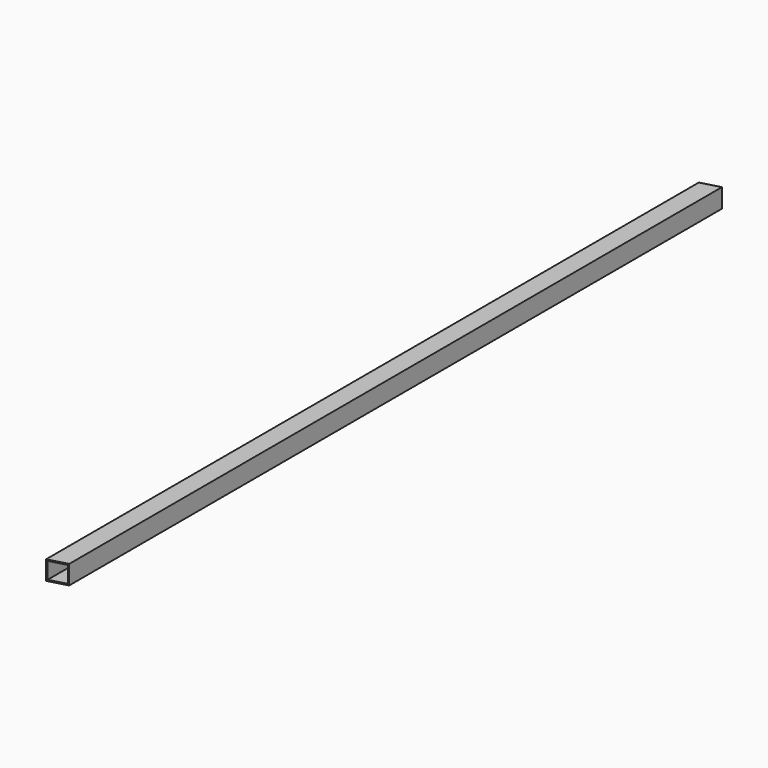
from build123d import *

# Parameters (mm, degrees)
F0_W     = 25.4
F0_H     = 25.4
F0_W_2   = 22.225
F0_H_2   = 22.225
F1_DEPTH = 548.64
F3_DEPTH = 25.401
F5_DEPTH = 25.401


with BuildPart() as f1:
    # F0 (on Front) → F1 (new body, symmetric)
    with BuildSketch(Plane.XZ):
        Rectangle(F0_W, F0_H)
        Rectangle(F0_W_2, F0_H_2, mode=Mode.SUBTRACT)
    extrude(amount=F1_DEPTH, both=True)

    # F2 (on face) → F3 (cut, through all)
    with BuildSketch(Plane.XY.offset(12.7)):
        Polygon((12.7, 548.64), (-12.7, 548.64), (-12.7, 541.691346), align=None)
    extrude(amount=-F3_DEPTH, mode=Mode.SUBTRACT)

    # F4 (on face) → F5 (cut, through all)
    with BuildSketch(Plane.XY.offset(12.7)):
        Polygon((12.7, -541.691346), (-12.7, -548.64), (12.7, -548.64), align=None)
    extrude(amount=-F5_DEPTH, mode=Mode.SUBTRACT)


solid = f1.part
